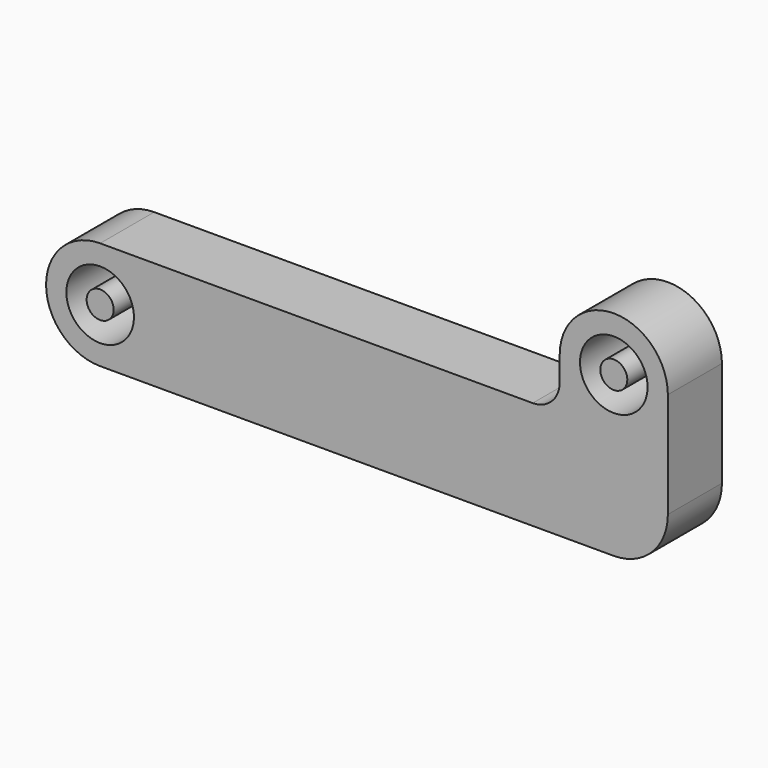
from build123d import *

# Parameters (mm, degrees)
F0_R     = 2.5
F0_R_2   = 1
F1_DEPTH = 5


with BuildPart() as f1:
    # F0 (on Front) → F1 (new body)
    with BuildSketch(Plane.XZ):
        with BuildLine():
            ThreePointArc((0, -4), (2.828427, -2.828427), (4, 0))
            ThreePointArc((4, 0), (2.828427, 2.828427), (0, 4))
            ThreePointArc((0, 4), (-4, 0), (0, -4))
        make_face()
        Circle(F0_R, mode=Mode.SUBTRACT)
        with BuildLine():
            ThreePointArc((0, 4), (2.828427, 2.828427), (4, 0))
            ThreePointArc((4, 0), (2.828427, -2.828427), (0, -4))
            Line((0, -4), (38, -4))
            ThreePointArc((38, -4), (40.828427, -2.828427), (42, 0))
            Line((42, 0), (42, 7.8))
            ThreePointArc((42, 7.8), (38, 3.8), (34, 7.8))
            Line((34, 7.8), (34, 6))
            ThreePointArc((34, 6), (33.414214, 4.585786), (32, 4))
            Line((32, 4), (0, 4))
        make_face()
        with BuildLine():
            ThreePointArc((42, 7.8), (38, 11.8), (34, 7.8))
            ThreePointArc((34, 7.8), (38, 3.8), (42, 7.8))
        make_face()
        with Locations((38, 7.8)):
            Circle(F0_R, mode=Mode.SUBTRACT)
        Circle(F0_R_2)
        with Locations((38, 7.8)):
            Circle(F0_R_2)
    extrude(amount=F1_DEPTH)


solid = f1.part
